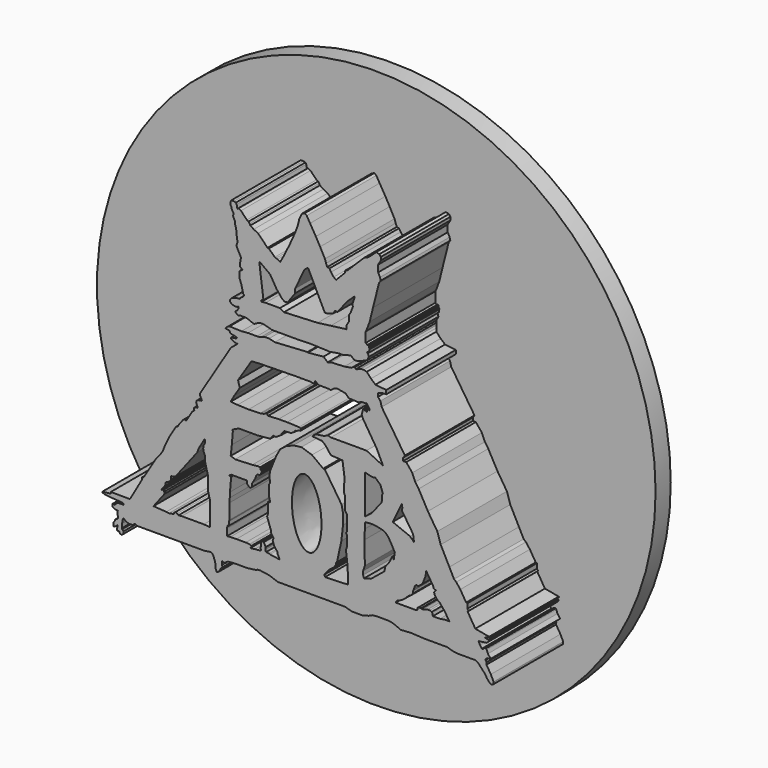
from build123d import *

# Parameters (mm, degrees)
F1_DEPTH = 34.036
F0_R     = 89.7377027932
F2_DEPTH = 6.096


with BuildPart() as f1:
    # F0 (on Front) → F1 (new body)
    with BuildSketch(Plane.XZ):
        Polygon((-22.7979568394, 25.407737121), (-22.202348195, 24.8600322201), (-21.6432679445, 24.8600322201), (-21.432235837, 25.0054076314), (-19.3669088185, 25.0054076314), (-17.1927195042, 24.1466164589), (-16.7211480439, 24.1466164589), (-15.4636232182, 24.8600322201), (-14.8545093834, 25.0054076314), (-13.8720683753, 25.0054076314), (-11.1212329939, 24.2448598146), (-6.7591946572, 24.2448598146), (-2.9424859677, 24.2448598146), (1.017251634, 24.3711993098), (6.7395460792, 24.1662636399), (7.5188702904, 24.1059884429), (7.8167933971, 24.1965334862), (10.3745786473, 24.5985370129), (11.4945610985, 24.5985370129), (13.8327712193, 25.1880008727), (14.2650445923, 25.1880008727), (15.2867836878, 24.3627503514), (16.1709804088, 24.3627503514), (19.282983616, 25.470810011), (19.9783649296, 26.7823003232), (19.7060983628, 27.5083463639), (19.282983616, 28.0226264149), (20.0842451304, 28.0226264149), (20.0842451304, 28.5369083285), (20.2657561749, 29.0360637009), (20.0539939106, 29.4142123312), (20.0539939106, 29.9436207861), (19.7666008025, 30.0948787481), (19.4640830159, 29.9738720059), (18.9617592841, 30.3582642227), (18.9617592841, 33.6144156754), (19.282983616, 34.2249423265), (20.2342253178, 36.7903150618), (21.3026497513, 41.1148890853), (23.2359878719, 48.7464927137), (23.7956400961, 49.5605282485), (23.5589165241, 50.4296049476), (22.9483880103, 51.6125038266), (22.9483880103, 52.7909398079), (22.9483880103, 53.7963323295), (23.7956400961, 55.2509389818), (23.7956400961, 56.262280792), (23.3516748995, 56.8982474506), (22.341308539, 57.1542067346), (20.6297375262, 55.5754378438), (19.5867512375, 54.7359623015), (18.442010507, 54.2780645192), (13.1507655606, 49.0376986563), (12.4384835362, 48.7578734756), (12.243002141, 47.9862358044), (9.4866147265, 45.1299622655), (8.672577329, 45.6387363374), (7.8331008554, 46.7834770679), (7.2988891043, 47.6483926177), (6.6053392679, 47.8240917764), (6.2329689972, 48.7578734756), (5.8513889089, 49.8781763017), (4.2996299453, 52.8036244214), (2.9259414878, 55.271178484), (1.0792693356, 58.388594538), (0, 60.2233558893), (-0.6475655246, 60.6910400093), (-1.5469586942, 60.2593310177), (-2.3743999191, 58.4965236485), (-2.9894247682, 56.068792141), (-3.8853802253, 53.7837035954), (-5.3963605314, 50.4296049476), (-7.1951462887, 46.7324629426), (-8.535659872, 44.2759506404), (-9.3242591247, 44.8228828609), (-9.8563739649, 44.9576851849), (-10.2306067822, 45.1397622219), (-12.1777802706, 46.9303280115), (-12.5836785416, 47.0331554956), (-15.6134609133, 50.1141771674), (-17.0247317273, 50.8008085807), (-18.1137733161, 51.5352189541), (-18.3476153761, 52.0388782024), (-18.6713971198, 52.470587194), (-19.2131075646, 52.7341478123), (-21.1357362568, 54.7370612621), (-21.757638776, 55.0396380613), (-22.0191605749, 55.1058902001), (-22.0191605749, 54.8270009458), (-22.2541313682, 54.886526835), (-22.5208010525, 56.0501739383), (-22.7398201823, 56.5086603165), (-23.3580752867, 56.6652848242), (-24.2265611887, 56.6652848242), (-24.480946362, 56.1665147543), (-24.480946362, 55.2507229149), (-24.2265611887, 54.8437051475), (-24.2265611887, 54.4366873801), (-23.4634000808, 53.1647503376), (-23.692348972, 52.452467382), (-22.9800660163, 51.0024651885), (-22.9800660163, 50.1121096313), (-22.6748008281, 49.1708815098), (-22.4967300892, 47.2884178162), (-22.2169049084, 45.43139413), (-22.4967300892, 44.6173585951), (-22.4967300892, 44.2357771099), (-21.9879578799, 43.1164763868), (-21.1152881384, 41.4889939129), (-21.3875547051, 39.9158969522), (-21.3875547051, 38.7965813279), (-20.5707550049, 38.1612926722), (-21.5085633099, 37.6167595387), (-21.6696336865, 35.7141569257), (-20.9771003574, 33.879391849), (-20.4342100769, 31.5260589123), (-20.3358922154, 31.374797225), (-20.1090034097, 31.3672348857), (-20.1090034097, 31.0269016773), (-20.5476544797, 30.5126197636), (-20.9484919906, 30.3764864802), (-21.3342029601, 29.9302730709), (-21.4703362435, 29.6580065042), (-21.9089891762, 29.6580065042), (-22.9904931039, 29.484057799), (-23.9056106657, 29.196664691), (-24.3669524789, 28.8109537214), (-24.6392190456, 28.3496137708), (-24.6392190456, 27.8530865908), (-24.1821992034, 27.4328240412), (-23.3785100281, 27.0930454135), (-22.3045386374, 27.0930454135), (-22.0069382007, 27.4166747847), (-21.8357153198, 27.2592230554), (-21.8357153198, 26.8782507628), (-22.3045386374, 26.1677782983), (-22.7979568394, 25.7552494365), align=None)
        Polygon((-13.926340939, 32.0123120602), (-15.2603136376, 42.3505976796), (-11.7499949411, 39.7674292326), (-9.7065176815, 36.3485328853), (-7.8988261521, 34.1085679829), (-7.1128732525, 33.5584022105), (-6.1452744426, 33.6832537036), (-3.693978535, 37.0558910072), (-3.693978535, 38.3527129889), (-0.7224795409, 44.7435863316), (0.4168133019, 45.6387363374), (5.8076139539, 34.6566773951), (6.7395460792, 34.6566773951), (8.5863769054, 35.3513658047), (9.0309781954, 36.2127833068), (9.9201835692, 36.2127833068), (13.0323972553, 40.1864163578), (15.4067557305, 42.4290783703), (15.2690103278, 41.6678749025), (14.7186735589, 40.0598395731), (14.8227708414, 39.2530858517), (14.19054496, 37.5367805557), (13.5561831475, 36.5021117032), (13.5561831475, 34.605412798), (12.8109424463, 33.3898961544), (12.8109424463, 32.0965016737), (12.6248965031, 32.2105675813), (7.7226630926, 31.5780211639), (3.4965991508, 31.0327224433), (-7.2987317108, 30.5186603218), (-8.6072562262, 31.2631875277), (-11.4866206422, 31.2631875277), (-13.1982183084, 31.2631875277), (-14.4716929644, 31.1463531107), (-14.7579330951, 31.4734838903), (-13.894316751, 31.7641246702), align=None, mode=Mode.SUBTRACT)
    extrude(amount=F1_DEPTH)



with BuildPart() as f1b:
    # F0 (on Front) → F1, piece 2 (new body)
    with BuildSketch(Plane.XZ):
        Polygon((-56.7831173539, -38.4355597198), (-62.9353970289, -38.3985564113), (-62.9353970289, -38.9012545347), (-65.6627863646, -39.2114259303), (-65.6627863646, -39.4467301667), (-64.8499131203, -39.7248193622), (-62.6680031419, -39.970818907), (-60.1331368089, -40.1526428759), (-59.1063536704, -40.2809903026), (-58.8389635086, -40.4735133052), (-58.8389635086, -40.7409034669), (-59.5983527601, -40.7409034669), (-60.4860931635, -40.7409034669), (-61.4593960345, -41.2329025567), (-61.5770481527, -41.329164058), (-61.5770481527, -41.7035110295), (-61.9300045073, -41.5537729859), (-62.3471364379, -41.5537729859), (-62.4647885561, -41.7142063379), (-62.4647885561, -42.0350767672), (-62.3471364379, -42.4386188388), (-61.4593960345, -42.9219566286), (-60.6541857123, -42.9219566286), (-60.7515126467, -43.1530438364), (-60.8347058296, -43.5085035861), (-60.8347058296, -43.7958948314), (-60.7212595642, -44.249676168), (-60.6002509594, -44.612698257), (-60.6002509594, -45.043785125), (-60.9405860305, -45.4143695533), (-61.3868013024, -45.641258359), (-61.5234449506, -45.8183810115), (-61.5929663181, -45.9975339472), (-61.6517923772, -46.1793579161), (-61.8149004877, -46.3745556772), (-62.0261393487, -46.5964898467), (-62.1358677745, -46.844497323), (-62.1358677745, -47.1879169345), (-62.0261393487, -47.353271395), (-62.1358677745, -47.6712547243), (-62.1358677745, -47.8874817491), (-61.8942007422, -47.8874817491), (-61.3868013024, -47.5949384272), (-60.9656870365, -47.2642332315), (-60.8512163162, -47.1116006374), (-60.8512163162, -47.7094128728), (-60.9784089029, -48.5107302666), (-60.7367418706, -48.7142391503), (-60.4441948235, -48.7142391503), (-60.4441948235, -48.5743246973), (-60.3170022368, -48.5743246973), (-60.0117370486, -49.2357313633), (-59.439368546, -49.4138039649), (-59.0069107711, -49.0958206356), (-58.854278177, -48.7651154399), (-58.854278177, -48.2436232269), (-59.0832270682, -47.9637980461), (-59.3503341079, -47.811165452), (-59.4775266945, -47.811165452), (-59.2358596623, -47.5949384272), (-59.3503341079, -47.4669955877), (-59.3503341079, -46.246688813), (-59.0600445867, -44.8024272919), (-58.854278177, -44.5989184082), (-58.6336031556, -44.6702465415), (-58.5144869983, -44.8649898171), (-58.1987313926, -45.0786463916), (-57.6072819531, -45.3521125019), (-56.977674365, -45.5111041665), (-55.8774545789, -45.44114694), (-55.2796423435, -44.9768900871), (-54.9998171628, -44.9768900871), (-54.5840449631, -45.2632531524), (-53.1936101615, -45.2632531524), (-42.5193570554, -45.2632531524), (-41.8348349631, -45.2632531524), (-38.8614460826, -45.2632531524), (-33.4922336042, -45.2632531524), (-32.6306410134, -45.2632531524), (-31.714849174, -45.0786463916), (-31.0534443706, -44.9768900871), (-30.4429158568, -45.0786463916), (-29.9087036401, -45.8897054195), (-29.3999314308, -47.4414639175), (-29.2218606919, -49.2730475962), (-28.8657192141, -50.0107705593), (-28.5095777363, -49.9121956527), (-28.1725153327, -49.5337955654), (-27.9117673635, -49.1267740726), (-27.3955110461, -48.2434406877), (-27.1077044308, -48.2434406877), (-26.9278269261, -48.423320055), (-26.9278269261, -47.9196608067), (-27.269596234, -47.5059375167), (-27.269596234, -46.3187396526), (-27.0897168666, -46.3187396526), (-26.7299599946, -46.6065481305), (-26.4781303704, -46.6065481305), (-25.2369679511, -45.8510555327), (-23.4201941639, -45.6891655922), (-19.1390831023, -45.6891655922), (-17.3223093152, -45.4553216696), (-16.121910885, -45.2972948551), (-15.9507803619, -45.1796427369), (-15.8652160317, -45.0192093849), (-14.8399844766, -45.0192093849), (-13.2930288091, -45.2394671738), (-11.9619267061, -45.4553216696), (-9.2817358673, -46.4086793363), (-2.0326280501, -46.4086793363), (12.3371332884, -46.4086793363), (14.5152676851, -47.0383018255), (18.1757416576, -47.0383018255), (19.9908539653, -46.4635193348), (21.1993567646, -45.9187328815), (22.7002389729, -45.804258436), (26.2616537511, -45.804258436), (27.1138474345, -45.9060147405), (28.6147296429, -46.4147888124), (30.2196070552, -47.1102036536), (33.691264689, -46.9123385847), (38.1162762642, -47.146178782), (45.1135523617, -47.146178782), (46.9527281821, -47.6949475706), (48.5299266875, -47.8984564543), (54.177314043, -47.8984564543), (55.0422295928, -48.3563505113), (57.3825873435, -50.900220871), (57.9167976975, -51.8414489925), (58.908905834, -52.9353134334), (59.3579672277, -53.181797266), (60.04248932, -52.7967512608), (60.04248932, -52.1122328937), (59.1654479504, -50.2939708531), (57.7536225319, -48.0264946818), (57.7536225319, -47.620061785), (57.8290298581, -47.431319952), (57.8290298581, -47.291405499), (57.7420555055, -47.1590533853), (57.4674233519, -46.8605397947), (57.4674233519, -46.5223640203), (57.8957640746, -46.1282910573), (59.0887218714, -45.9234081209), (58.2223758101, -44.7789728642), (57.8290298581, -43.730802834), (57.6032492306, -43.4853887959), (57.0886358619, -43.4853887959), (56.6394180059, -43.9981929958), (56.2436804175, -43.9981929958), (55.6982010603, -43.1532375515), (55.2078261971, -42.1563088894), (57.7420555055, -41.8510437012), (58.5121986614, -41.1425129), (58.5121986614, -40.7571829855), (57.0886358619, -40.5536741018), (58.6929805577, -40.0613620877), (58.6228308891, -39.8327585894), (54.177314043, -39.0131883323), (51.6980290413, -34.9702350795), (52.018251297, -34.6756309795), (51.5953195812, -34.2159220074), (51.5953195812, -32.8856818378), (51.6336812008, -32.6173388858), (51.231364904, -32.5598247807), (49.3426322937, -29.4839497656), (48.065494746, -27.8290659189), (47.3459810019, -27.2174794227), (45.8349995315, -24.2674704641), (43.0498532951, -18.8569817692), (41.9607870281, -15.4687743634), (38.9356017113, -10.7494853437), (35.9709188342, -5.3646545857), (34.8818525672, -3.7915583234), (33.9137949049, -1.4924179995), (31.9776758552, 0.8672274416), (31.0096163303, 0.8672274416), (31.0096163303, 1.8352866173), (31.5541513264, 2.621834632), (24.0977909416, 13.900289312), (23.6699637026, 15.4832452536), (22.8998791426, 16.3816791028), (22.8998791426, 17.4940265715), (24.2689214647, 17.9646350443), (25.5523975939, 17.9646350443), (25.5523975939, 19.2053299397), (22.0870096236, 19.5903722197), (20.6751842052, 20.8310671151), (19.282983616, 22.3049465567), (18.3692574501, 22.547705099), (17.3966921866, 22.547705099), (16.076778993, 21.9502709806), (15.7989021391, 21.9502709806), (15.4098756611, 22.3049465567), (15.0069547817, 22.3049465567), (14.4234150648, 21.8530148268), (12.1031478047, 21.4639883488), (7.8167933971, 21.2555807084), (6.7395460792, 20.908234641), (5.4063289426, 22.0892094076), (0.3589811968, 21.580055356), (0.2509109909, 21.7173323035), (-10.2378837764, 21.0840515792), (-12.0884170756, 21.5136390179), (-13.4763177484, 21.5136390179), (-14.8545093834, 20.9849160165), (-16.0124413669, 20.8895914257), (-18.8500154763, 20.8895914257), (-20.9751166403, 20.6982456148), (-24.7892737389, 20.8323784173), (-25.3698546439, 20.5320622772), (-26.1165089905, 19.9327748269), (-26.1165089905, 19.7804961354), (-24.9228440225, 19.7068117559), (-24.6968828142, 19.3924307823), (-24.5888140053, 19.3924307823), (-24.5888140053, 18.9847182482), (-23.6420594156, 18.7194216996), (-22.5305557251, 18.5665898025), (-22.3916172981, 18.3998625726), (-22.5583426654, 18.0941987783), (-24.2811758071, 17.8718976676), (-24.4201142341, 17.6357030869), (-23.5031209886, 16.9410128146), (-22.6694922894, 16.7326051742), (-22.1554227173, 16.7326051742), (-24.3489071727, 14.9576710537), (-34.2675447464, -1.220013597), (-34.2675447464, -1.7661848105), (-33.7071307003, -2.9723362532), (-33.8372899557, -3.184631074), (-34.9410632946, -3.3270534788), (-35.35939008, -3.6167185754), (-35.5080962181, -4.161965102), (-35.1115502417, -5.2028903738), (-35.062777203, -5.5808813214), (-35.8974002856, -5.6885746515), (-36.1855216324, -5.8803181164), (-36.1855216324, -6.4420872368), (-35.9538545302, -6.5841237565), (-36.791075021, -7.2239916772), (-37.4847307162, -8.3553711644), (-38.0016861869, -9.1985456954), (-38.779321883, -10.4668998388), (-39.2560270484, -10.1746289813), (-39.7586226463, -10.5186710134), (-41.0671494901, -12.2477933764), (-41.4960973993, -12.9474241427), (-42.0018099248, -13.2058206946), (-43.9598110086, -16.3993968126), (-45.6744655967, -19.9478678405), (-46.3287271559, -21.6769911349), (-48.4784469008, -24.4342405349), (-49.4337723242, -25.9924135524), (-50.0612338832, -27.0158278223), (-52.4549408125, -30.9200571645), (-52.8517239482, -30.9712550023), (-52.8517239482, -31.5727107227), align=None)
        Polygon((-34.7218103707, -16.9328124558), (-32.8481011093, -13.7266479433), (-32.7327789245, -13.8591001137), (-32.7557213604, -14.0659641474), (-32.7557213604, -14.8425316438), (-32.8481011093, -15.1547305286), (-33.1568866968, -15.5984982848), (-33.2579910755, -16.5210701525), (-33.1442505121, -17.3299014568), (-32.7557213604, -18.1229628893), (-32.7557213604, -19.5585377514), (-31.7008495331, -23.7743332982), (-31.7309238017, -27.8139933944), (-31.5572917461, -28.6438595504), (-31.1061423272, -30.1953684539), (-31.1061423272, -38.0241498351), (-33.082716167, -37.8509052098), (-40.1183962822, -37.8509052098), (-41.2101298571, -37.9528552294), (-41.6324937923, -37.5860308458), (-42.2166436911, -37.3958425244), (-42.6384678216, -37.6747169647), (-42.6235944033, -38.0823016167), (-44.2539229989, -38.3591502905), (-45.1082326472, -38.2361039519), (-49.2218099535, -37.9746370018), (-45.6997564177, -33.3756110183), (-45.7127047301, -33.0207811296), (-45.8165561656, -32.8092165291), (-45.8165561656, -32.1318659712), (-45.9183359329, -32.0987283756), (-46.5502282598, -32.5164821413), (-46.6471984982, -32.4425436556), (-45.5277203053, -30.9743492997), (-45.5332249403, -30.8235026896), (-45.4351035455, -30.7999011129), (-45.4351035455, -30.3117416848), (-45.382194221, -30.1492344588), (-45.1082326472, -29.8296082765), (-44.7038076818, -29.7448094934), (-44.0188981593, -29.2229726911), (-43.5759149171, -28.6880899221), (-43.5759149171, -27.5763487124), (-42.7599661052, -27.5465734303), (-42.2166436911, -27.3647904396), (-35.1093011733, -18.1229628893), align=None, mode=Mode.SUBTRACT)
        Polygon((-22.0613218844, 6.4985253848), (-17.7428852767, 13.2611682639), (-14.9331036955, 13.4380077943), (-3.7136268802, 13.6344954371), (1.2957743602, 13.6344954371), (2.0668695215, 13.4295113385), (2.6276658755, 13.7800090015), (2.7211320121, 14.3408058211), (3.8894577883, 13.5229770094), (7.324335631, 13.5229770094), (7.6251802966, 13.3535703644), (7.8432990614, 13.4606390649), (8.8474228978, 14.1997495666), (9.9575808272, 14.4748333842), (12.5021031126, 14.0032609925), (13.5140176862, 12.9815228283), (16.7167335749, 12.8105552867), (17.6380754898, 13.2628175284), (19.0464220941, 13.2628175284), (19.1662125289, 13.4528717026), (20.1590638608, 12.0942713693), (20.1590638608, 11.6106662899), (19.9042577296, 11.8661019951), (19.2165486515, 11.8661019951), (19.2165486515, 11.6324368864), (19.3869302715, 11.2853379832), (19.3869302715, 10.9577281401), (19.2165486515, 10.9577281401), (19.1445599961, 11.1043823584), (19.0588254482, 11.1767891794), (18.4191670269, 11.2235229462), (18.2702038437, 11.3461967558), (18.089113757, 11.3461967558), (17.6506799148, 9.5715840218), (18.198695095, 8.4551756443), (22.4003400654, 1.8166924128), (24.5452521281, -2.5528905525), (19.2165486515, 0), (7.7587077394, 0), (6.7395460792, 0.2517929427), (6.0390937142, 0), (5.9456280433, -0.25775822), (2.9547135346, -0.6900388398), (1.8915369874, -1.4728171518), (1.8798536621, -1.6363827744), (4.929184448, -1.8934145337), (6.0284575447, -2.7992897667), (7.7575794421, -5.0424756482), (11.4945610985, -5.2527743392), (12.1037522331, -9.6223130822), (12.0072150603, -14.0659641474), (12.0072150603, -14.3999941647), (12.3616983067, -15.1221421641), (12.3616983067, -16.1531176418), (12.2250169516, -18.7969468534), (12.2454632074, -19.0598201007), (12.5784993247, -19.5860079857), (12.9687753099, -20.202633284), (12.9687753099, -22.3275199533), (12.9687753099, -25.0146947801), (12.649891898, -25.4037231207), (12.9687753099, -25.9594749659), (12.9687753099, -29.1550531983), (12.594317086, -30.2943456918), (12.8166181967, -31.9338142872), (13.1450621411, -34.9177420139), (13.3219007403, -39.8495979607), (5.8782272999, -40.1165012924), (5.658860784, -39.5155660808), (6.3269208185, -38.5920740664), (7.4469032697, -37.3738445342), (8.8223209605, -36.3914035261), (9.3528395519, -35.5268567801), (9.3528395519, -35.015989095), (9.7261667252, -34.6230119467), (11.1375944689, -28.1592290848), (11.6516575217, -23.5793925822), (11.6516575217, -19.9809484184), (11.1843273044, -17.8312286735), (5.7767545804, -9.6223130822), (5.3051826544, -9.6223130822), (1.6897995956, -6.9181718864), (-1.6897976166, -5.8178380132), (-4.2834426276, -6.1715166084), (-6.7591946572, -7.2325528599), (-8.4882900119, -8.6079705507), (-9.7458148375, -10.808638297), (-11.7160696536, -15.6976394355), (-12.0134772733, -17.2838103026), (-12.0134772733, -17.9116707295), (-11.7491148412, -18.5395311564), (-11.7491148412, -19.2995723337), (-12.0929302648, -19.6926798671), (-12.0929302648, -23.1954753399), (-11.7160696536, -24.748602882), (-12.423383072, -24.748602882), (-12.423383072, -28.1853079796), (-12.7190928906, -29.0024895221), (-12.2744906694, -30.3362961859), (-11.4130740985, -32.7260307968), (-11.4408619702, -33.309571445), (-10.6350211427, -34.4488658011), (-10.9406849369, -35.3102833033), (-10.419528, -36.6475731134), (-9.3526327983, -38.0491800606), (-9.3526327983, -38.55124861), (-8.6622890085, -39.8900955915), (-11.7916250601, -39.4460558891), (-12.0790516958, -39.2920784652), (-13.0439829081, -39.1996912658), (-13.1774302572, -39.0457138419), (-13.2879968733, -38.6458672583), (-13.2879968733, -38.2943972945), (-13.191039674, -37.9853434861), (-13.191039674, -37.8259308636), (-13.710366562, -36.8126556277), (-13.8551210985, -36.6481617093), (-14.1023541872, -36.5676672228), (-14.3288606778, -36.5676672228), (-14.4999334589, -36.6744808853), (-14.644687064, -36.852132529), (-14.7121530712, -37.0593495705), (-14.6832264139, -37.2790813553), (-14.6582923628, -37.468484628), (-14.6582923628, -38.2943972945), (-14.7699452937, -38.3551679552), (-14.8090509561, -38.4752782152), (-14.8090509561, -38.7852191925), (-14.7234303877, -38.850966841), (-14.6338600672, -38.8801292682), (-14.6338600672, -39.2803400755), (-15.3245637193, -39.4331887364), (-16.6590567678, -39.5331270993), (-18.0159905288, -39.7117610547), (-18.1093656861, -39.6813598435), (-18.0996414274, -39.6021232009), (-17.7239331679, -39.3612845692), (-17.6604022893, -39.3205596464), (-17.6828308036, -39.1501888556), (-17.794983454, -38.9752307237), (-18.2148274034, -38.7457311153), (-18.4001669081, -38.6853880264), (-19.5870604366, -38.6105105281), (-22.582154721, -38.6105105281), (-24.5681200176, -38.6922061443), (-25.5646929145, -38.7475714087), (-25.5646929145, -36.564130336), (-25.5925975614, -36.3521619152), (-25.3800281143, -35.6992699812), (-24.9999593943, -35.6499515474), (-24.9999593943, -34.4488658011), (-24.845718443, -33.9751256921), (-24.845718443, -31.6243544221), (-24.845718443, -29.7467261553), (-24.845718443, -29.1141550988), (-24.7204266489, -27.6270583272), (-24.6535819024, -25.999866426), (-24.2834563534, -21.6068212748), (-24.7204266489, -21.4645518896), (-24.8087979853, -21.2661959231), (-24.6819481254, -21.136527881), (-24.4451649487, -21.0547801107), (-24.2834563534, -20.9482555669), (-19.1390831023, -20.9482555669), (-19.1390831023, -21.8423809856), (-18.9313246098, -22.1577668372), (-18.4973441064, -22.515444085), (-18.2545986027, -22.7361191064), (-17.6828308036, -22.3594705808), (-17.4932666123, -21.1251825094), (-16.4560861886, -19.3708054721), (-16.2893962115, -18.6423175037), (-15.9273780882, -18.183760345), (-15.2106764631, -18.0894099427), (-14.9222031638, -17.8993799287), (-14.5094739273, -17.2304473817), (-14.4125695419, -16.9328124558), (-14.5456762984, -16.6874192655), (-14.6338600672, -16.5535527136), (-14.863117598, -16.4692774415), (-14.863117598, -16.3142047822), (-14.8415723962, -16.0584833264), (-14.9943325669, -15.8370584249), (-15.8652160317, -15.7636842143), (-17.4932666123, -15.9780094254), (-22.9502096772, -16.1771420389), (-24.2834563534, -15.7430617663), (-24.4229678111, -15.6976394355), (-24.0595601499, -12.4209178612), (-23.7383093619, -8.6079705507), (-23.8157810829, -8.0194822452), (-21.8441803008, -7.0808059536), (-15.8652160317, -7.0808059536), (-11.7160696536, -6.7179021426), (-10.7654239982, -5.5092121474), (-10.6350211427, -5.5201989292), (-10.3571811176, -5.5436076784), (-9.8163354045, -5.5891753449), (-8.0270261629, -4.4104788725), (-8.0812744882, -3.9983994112), (-7.7672812944, -3.7915583234), (-7.3781311512, -3.2955866773), (-7.303848397, -3.0727384146), (-5.0456528552, -2.9093166813), (-3.7852847017, -2.1927291527), (-3.7128031254, -1.8171429401), (-3.2660552965, -1.7583306871), (-2.5069736876, -1.3756643748), (-2.0109678235, -1.3103675328), (-1.8554677061, -0.924508686), (-1.8863345599, -0.6900388398), (-2.1182089113, -0.5190641969), (-2.475091697, -0.4028698124), (-6.2941145152, -0.2777333139), (-9.0159019455, -0.2777333139), (-12.4329291284, -0.4700335558), (-12.6341123487, -0.1646292352), (-12.8806931898, 0), (-13.2161453366, -0.0257411812), (-13.4629486474, -0.1883213462), (-13.710366562, -0.3971351543), (-14.3183469772, -0.3731742618), (-14.7496433929, -0.5169396172), (-14.9544929035, -0.543907093), (-18.6792314053, -0.6900388398), (-22.2254451364, -0.540900568), (-24.4229678111, -0.3557535326), (-23.2557635754, 1.7353851581), (-21.4985553175, 4.4922386296), align=None, mode=Mode.SUBTRACT)
        with BuildLine():
            add(Edge.make_bspline(
                [(0.8416283672, -34.8455198109), (8.9456913926, -34.2172973667), (3.6312173291, -18.2459127562), (-1.6832567344, -2.2745281458), (-4.4728456963, -18.8741352005), (-7.2624346582, -35.4737422552), (0.8416283672, -34.8455198109)],
                knots=[0, 0, 0, 2.0943951024, 2.0943951024, 4.1887902048, 4.1887902048, 6.2831853072, 6.2831853072, 6.2831853072], degree=2, weights=[1, 0.5, 1, 0.5, 1, 0.5, 1]))
        make_face(mode=Mode.SUBTRACT)
        Polygon((38.1966233253, -29.3047651649), (38.3810922503, -27.8152879328), (40.6376333852, -31.3354920475), (40.7733470201, -31.9338142872), (41.506949199, -32.2882977624), (40.9391485155, -32.9550839961), (41.0190007404, -33.5616550126), (41.7181631015, -34.6230119467), (42.715575546, -35.3102833033), (44.2902892828, -37.26317361), (45.8572672144, -39.6419099174), (44.4397777319, -39.6419099174), (42.8325310349, -39.9062559009), (40.5312478542, -39.9062559009), (40.3271727264, -38.9938317239), (40.1826240122, -38.7873351574), (39.5631454885, -38.5705158114), (38.8507395983, -38.5705158114), (37.3020358384, -39.0041545033), (36.8064492941, -39.0144810081), (36.6928800941, -38.9215573668), (35.9185263515, -38.9215573668), (35.6087870896, -39.1486994922), (35.6087870896, -39.6419099174), (35.3196971118, -39.9437025189), (28.5841710865, -39.9437025189), (28.9682168514, -39.2991267145), (30.5339414626, -38.590118289), (31.5383672714, -37.8515720367), (32.6609611511, -36.728978157), (33.547218889, -36.2563058734), (34.2158786952, -35.5041511357), (34.2158786952, -34.7765013576), (34.8242372274, -33.1661328673), (35.3252403438, -32.7844135463), (35.6950312853, -32.9991318285), (37.1648594737, -31.9130606949), align=None, mode=Mode.SUBTRACT)
        Polygon((18.6737676439, -20.8091776749), (18.8597459346, -20.3390251845), (21.0080165416, -20.202633284), (22.7844435722, -20.4100105911), (24.2109834602, -20.740466048), (25.2122264355, -21.136527881), (26.064584896, -21.9975619709), (26.9175954163, -23.2878215611), (28.306838125, -25.8239321411), (28.1632710248, -26.6901552677), (27.9618762434, -27.941128239), (27.8356214678, -27.9101449996), (27.8356214678, -27.1982826289), (27.6765444941, -27.1464901307), (27.5036189705, -27.2608138621), (26.567498222, -29.1273202747), (25.264153257, -30.8449082077), (24.9610487372, -32.2882977624), (20.6751842052, -35.7846617699), (18.4188503772, -36.4034473896), (18.1250546613, -35.5775356293), (18.1250546613, -34.4171155348), (18.6737676439, -32.731782645), (18.571652472, -25.4515297711), (18.6737676439, -22.3275199533), align=None, mode=Mode.SUBTRACT)
        Polygon((18.7779087573, -18.7870264053), (18.7779087573, -6.3025178388), (20.4663481563, -6.747181993), (21.4858669788, -6.8579991348), (21.9291355461, -6.6806916147), (23.6357208341, -8.1434790045), (24.4483985007, -10.3984242305), (24.2336820811, -10.8994282782), (24.2336820811, -12.4501539394), (24.0367949009, -13.1005896255), (21.0439320654, -16.9913098216), align=None, mode=Mode.SUBTRACT)
        Polygon((27.6293985451, -17.4466584793), (30.5382683873, -11.4267636091), (30.7430569082, -12.4209178612), (30.5692082332, -13.2595010353), (31.6420312686, -14.8880900885), (32.9889795687, -16.9328124558), (34.1911339699, -18.7577317884), (34.504291301, -21.136527881), (34.1561958194, -20.6081047654), (33.2026883716, -19.6926798671), align=None, mode=Mode.SUBTRACT)
    extrude(amount=F1_DEPTH)


with BuildPart() as f1_1:
    add(f1.part)

    add(f1b.part)  # F2 merges F1b
    # F0 (on Front) → F2 (join)
    with BuildSketch(Plane.XZ):
        Circle(F0_R)
        Polygon((-62.9353970289, -38.9012545347), (-62.9353970289, -38.3985564113), (-56.7831173539, -38.4355597198), (-52.8517239482, -31.5727107227), (-52.8517239482, -30.9712550023), (-52.4549408125, -30.9200571645), (-50.0612338832, -27.0158278223), (-49.4337723242, -25.9924135524), (-48.4784469008, -24.4342405349), (-46.3287271559, -21.6769911349), (-45.6744655967, -19.9478678405), (-43.9598110086, -16.3993968126), (-42.0018099248, -13.2058206946), (-41.4960973993, -12.9474241427), (-41.0671494901, -12.2477933764), (-39.7586226463, -10.5186710134), (-39.2560270484, -10.1746289813), (-38.779321883, -10.4668998388), (-38.0016861869, -9.1985456954), (-37.4847307162, -8.3553711644), (-36.791075021, -7.2239916772), (-35.9538545302, -6.5841237565), (-36.1855216324, -6.4420872368), (-36.1855216324, -5.8803181164), (-35.8974002856, -5.6885746515), (-35.062777203, -5.5808813214), (-35.1115502417, -5.2028903738), (-35.5080962181, -4.161965102), (-35.35939008, -3.6167185754), (-34.9410632946, -3.3270534788), (-33.8372899557, -3.184631074), (-33.7071307003, -2.9723362532), (-34.2675447464, -1.7661848105), (-34.2675447464, -1.220013597), (-24.3489071727, 14.9576710537), (-22.1554227173, 16.7326051742), (-22.6694922894, 16.7326051742), (-23.5031209886, 16.9410128146), (-24.4201142341, 17.6357030869), (-24.2811758071, 17.8718976676), (-22.5583426654, 18.0941987783), (-22.3916172981, 18.3998625726), (-22.5305557251, 18.5665898025), (-23.6420594156, 18.7194216996), (-24.5888140053, 18.9847182482), (-24.5888140053, 19.3924307823), (-24.6968828142, 19.3924307823), (-24.9228440225, 19.7068117559), (-26.1165089905, 19.7804961354), (-26.1165089905, 19.9327748269), (-25.3698546439, 20.5320622772), (-24.7892737389, 20.8323784173), (-22.202348195, 24.8600322201), (-22.7979568394, 25.407737121), (-22.7979568394, 25.7552494365), (-22.3045386374, 26.1677782983), (-21.8357153198, 26.8782507628), (-21.8357153198, 27.2592230554), (-22.0069382007, 27.4166747847), (-22.3045386374, 27.0930454135), (-23.3785100281, 27.0930454135), (-24.1821992034, 27.4328240412), (-24.6392190456, 27.8530865908), (-24.6392190456, 28.3496137708), (-24.3669524789, 28.8109537214), (-23.9056106657, 29.196664691), (-22.9904931039, 29.484057799), (-21.9089891762, 29.6580065042), (-21.4703362435, 29.6580065042), (-21.3342029601, 29.9302730709), (-20.9484919906, 30.3764864802), (-20.5476544797, 30.5126197636), (-20.1090034097, 31.0269016773), (-20.1090034097, 31.3672348857), (-20.3358922154, 31.374797225), (-20.4342100769, 31.5260589123), (-20.9771003574, 33.879391849), (-21.6696336865, 35.7141569257), (-21.5085633099, 37.6167595387), (-20.5707550049, 38.1612926722), (-21.3875547051, 38.7965813279), (-21.3875547051, 39.9158969522), (-21.1152881384, 41.4889939129), (-21.9879578799, 43.1164763868), (-22.4967300892, 44.2357771099), (-22.4967300892, 44.6173585951), (-22.2169049084, 45.43139413), (-22.4967300892, 47.2884178162), (-22.6748008281, 49.1708815098), (-22.9800660163, 50.1121096313), (-22.9800660163, 51.0024651885), (-23.692348972, 52.452467382), (-23.4634000808, 53.1647503376), (-24.2265611887, 54.4366873801), (-24.2265611887, 54.8437051475), (-24.480946362, 55.2507229149), (-24.480946362, 56.1665147543), (-24.2265611887, 56.6652848242), (-23.3580752867, 56.6652848242), (-22.7398201823, 56.5086603165), (-22.5208010525, 56.0501739383), (-22.2541313682, 54.886526835), (-22.0191605749, 54.8270009458), (-22.0191605749, 55.1058902001), (-21.757638776, 55.0396380613), (-21.1357362568, 54.7370612621), (-19.2131075646, 52.7341478123), (-18.6713971198, 52.470587194), (-18.3476153761, 52.0388782024), (-18.1137733161, 51.5352189541), (-17.0247317273, 50.8008085807), (-15.6134609133, 50.1141771674), (-12.5836785416, 47.0331554956), (-12.1777802706, 46.9303280115), (-10.2306067822, 45.1397622219), (-9.8563739649, 44.9576851849), (-9.3242591247, 44.8228828609), (-8.535659872, 44.2759506404), (-7.1951462887, 46.7324629426), (-5.3963605314, 50.4296049476), (-3.8853802253, 53.7837035954), (-2.9894247682, 56.068792141), (-2.3743999191, 58.4965236485), (-1.5469586942, 60.2593310177), (-0.6475655246, 60.6910400093), (0, 60.2233558893), (1.0792693356, 58.388594538), (2.9259414878, 55.271178484), (4.2996299453, 52.8036244214), (5.8513889089, 49.8781763017), (6.2329689972, 48.7578734756), (6.6053392679, 47.8240917764), (7.2988891043, 47.6483926177), (7.8331008554, 46.7834770679), (8.672577329, 45.6387363374), (9.4866147265, 45.1299622655), (12.243002141, 47.9862358044), (12.4384835362, 48.7578734756), (13.1507655606, 49.0376986563), (18.442010507, 54.2780645192), (19.5867512375, 54.7359623015), (20.6297375262, 55.5754378438), (22.341308539, 57.1542067346), (23.3516748995, 56.8982474506), (23.7956400961, 56.262280792), (23.7956400961, 55.2509389818), (22.9483880103, 53.7963323295), (22.9483880103, 52.7909398079), (22.9483880103, 51.6125038266), (23.5589165241, 50.4296049476), (23.7956400961, 49.5605282485), (23.2359878719, 48.7464927137), (21.3026497513, 41.1148890853), (20.2342253178, 36.7903150618), (19.282983616, 34.2249423265), (18.9617592841, 33.6144156754), (18.9617592841, 30.3582642227), (19.4640830159, 29.9738720059), (19.7666008025, 30.0948787481), (20.0539939106, 29.9436207861), (20.0539939106, 29.4142123312), (20.2657561749, 29.0360637009), (20.0842451304, 28.5369083285), (20.0842451304, 28.0226264149), (19.282983616, 28.0226264149), (19.7060983628, 27.5083463639), (19.9783649296, 26.7823003232), (19.282983616, 25.470810011), (19.282983616, 22.3049465567), (20.6751842052, 20.8310671151), (22.0870096236, 19.5903722197), (25.5523975939, 19.2053299397), (25.5523975939, 17.9646350443), (24.2689214647, 17.9646350443), (22.8998791426, 17.4940265715), (22.8998791426, 16.3816791028), (23.6699637026, 15.4832452536), (24.0977909416, 13.900289312), (31.5541513264, 2.621834632), (31.0096163303, 1.8352866173), (31.0096163303, 0.8672274416), (31.9776758552, 0.8672274416), (33.9137949049, -1.4924179995), (34.8818525672, -3.7915583234), (35.9709188342, -5.3646545857), (38.9356017113, -10.7494853437), (41.9607870281, -15.4687743634), (43.0498532951, -18.8569817692), (45.8349995315, -24.2674704641), (47.3459810019, -27.2174794227), (48.065494746, -27.8290659189), (49.3426322937, -29.4839497656), (51.231364904, -32.5598247807), (51.6336812008, -32.6173388858), (51.5953195812, -32.8856818378), (51.5953195812, -34.2159220074), (52.018251297, -34.6756309795), (51.6980290413, -34.9702350795), (54.177314043, -39.0131883323), (58.6228308891, -39.8327585894), (58.6929805577, -40.0613620877), (57.0886358619, -40.5536741018), (58.5121986614, -40.7571829855), (58.5121986614, -41.1425129), (57.7420555055, -41.8510437012), (55.2078261971, -42.1563088894), (55.6982010603, -43.1532375515), (56.2436804175, -43.9981929958), (56.6394180059, -43.9981929958), (57.0886358619, -43.4853887959), (57.6032492306, -43.4853887959), (57.8290298581, -43.730802834), (58.2223758101, -44.7789728642), (59.0887218714, -45.9234081209), (57.8957640746, -46.1282910573), (57.4674233519, -46.5223640203), (57.4674233519, -46.8605397947), (57.7420555055, -47.1590533853), (57.8290298581, -47.291405499), (57.8290298581, -47.431319952), (57.7536225319, -47.620061785), (57.7536225319, -48.0264946818), (59.1654479504, -50.2939708531), (60.04248932, -52.1122328937), (60.04248932, -52.7967512608), (59.3579672277, -53.181797266), (58.908905834, -52.9353134334), (57.9167976975, -51.8414489925), (57.3825873435, -50.900220871), (55.0422295928, -48.3563505113), (54.177314043, -47.8984564543), (48.5299266875, -47.8984564543), (46.9527281821, -47.6949475706), (45.1135523617, -47.146178782), (38.1162762642, -47.146178782), (33.691264689, -46.9123385847), (30.2196070552, -47.1102036536), (28.6147296429, -46.4147888124), (27.1138474345, -45.9060147405), (26.2616537511, -45.804258436), (22.7002389729, -45.804258436), (21.1993567646, -45.9187328815), (19.9908539653, -46.4635193348), (18.1757416576, -47.0383018255), (14.5152676851, -47.0383018255), (12.3371332884, -46.4086793363), (-2.0326280501, -46.4086793363), (-9.2817358673, -46.4086793363), (-11.9619267061, -45.4553216696), (-13.2930288091, -45.2394671738), (-14.8399844766, -45.0192093849), (-15.8652160317, -45.0192093849), (-15.9507803619, -45.1796427369), (-16.121910885, -45.2972948551), (-17.3223093152, -45.4553216696), (-19.1390831023, -45.6891655922), (-23.4201941639, -45.6891655922), (-25.2369679511, -45.8510555327), (-26.4781303704, -46.6065481305), (-26.7299599946, -46.6065481305), (-27.0897168666, -46.3187396526), (-27.269596234, -46.3187396526), (-27.269596234, -47.5059375167), (-26.9278269261, -47.9196608067), (-26.9278269261, -48.423320055), (-27.1077044308, -48.2434406877), (-27.3955110461, -48.2434406877), (-27.9117673635, -49.1267740726), (-28.1725153327, -49.5337955654), (-28.5095777363, -49.9121956527), (-28.8657192141, -50.0107705593), (-29.2218606919, -49.2730475962), (-29.3999314308, -47.4414639175), (-29.9087036401, -45.8897054195), (-30.4429158568, -45.0786463916), (-31.0534443706, -44.9768900871), (-31.714849174, -45.0786463916), (-32.6306410134, -45.2632531524), (-33.4922336042, -45.2632531524), (-38.8614460826, -45.2632531524), (-41.8348349631, -45.2632531524), (-42.5193570554, -45.2632531524), (-53.1936101615, -45.2632531524), (-54.5840449631, -45.2632531524), (-54.9998171628, -44.9768900871), (-55.2796423435, -44.9768900871), (-55.8774545789, -45.44114694), (-56.977674365, -45.5111041665), (-57.6072819531, -45.3521125019), (-58.1987313926, -45.0786463916), (-58.5144869983, -44.8649898171), (-58.6336031556, -44.6702465415), (-58.854278177, -44.5989184082), (-59.0600445867, -44.8024272919), (-59.3503341079, -46.246688813), (-59.3503341079, -47.4669955877), (-59.2358596623, -47.5949384272), (-59.4775266945, -47.811165452), (-59.3503341079, -47.811165452), (-59.0832270682, -47.9637980461), (-58.854278177, -48.2436232269), (-58.854278177, -48.7651154399), (-59.0069107711, -49.0958206356), (-59.439368546, -49.4138039649), (-60.0117370486, -49.2357313633), (-60.3170022368, -48.5743246973), (-60.4441948235, -48.5743246973), (-60.4441948235, -48.7142391503), (-60.7367418706, -48.7142391503), (-60.9784089029, -48.5107302666), (-60.8512163162, -47.7094128728), (-60.8512163162, -47.1116006374), (-60.9656870365, -47.2642332315), (-61.3868013024, -47.5949384272), (-61.8942007422, -47.8874817491), (-62.1358677745, -47.8874817491), (-62.1358677745, -47.6712547243), (-62.0261393487, -47.353271395), (-62.1358677745, -47.1879169345), (-62.1358677745, -46.844497323), (-62.0261393487, -46.5964898467), (-61.8149004877, -46.3745556772), (-61.6517923772, -46.1793579161), (-61.5929663181, -45.9975339472), (-61.5234449506, -45.8183810115), (-61.3868013024, -45.641258359), (-60.9405860305, -45.4143695533), (-60.6002509594, -45.043785125), (-60.6002509594, -44.612698257), (-60.7212595642, -44.249676168), (-60.8347058296, -43.7958948314), (-60.8347058296, -43.5085035861), (-60.7515126467, -43.1530438364), (-60.6541857123, -42.9219566286), (-61.4593960345, -42.9219566286), (-62.3471364379, -42.4386188388), (-62.4647885561, -42.0350767672), (-62.4647885561, -41.7142063379), (-62.3471364379, -41.5537729859), (-61.9300045073, -41.5537729859), (-61.5770481527, -41.7035110295), (-61.5770481527, -41.329164058), (-61.4593960345, -41.2329025567), (-60.4860931635, -40.7409034669), (-59.5983527601, -40.7409034669), (-58.8389635086, -40.7409034669), (-58.8389635086, -40.4735133052), (-59.1063536704, -40.2809903026), (-60.1331368089, -40.1526428759), (-62.6680031419, -39.970818907), (-64.8499131203, -39.7248193622), (-65.6627863646, -39.4467301667), (-65.6627863646, -39.2114259303), align=None, mode=Mode.SUBTRACT)
    extrude(amount=F2_DEPTH)


solid = f1_1.part
